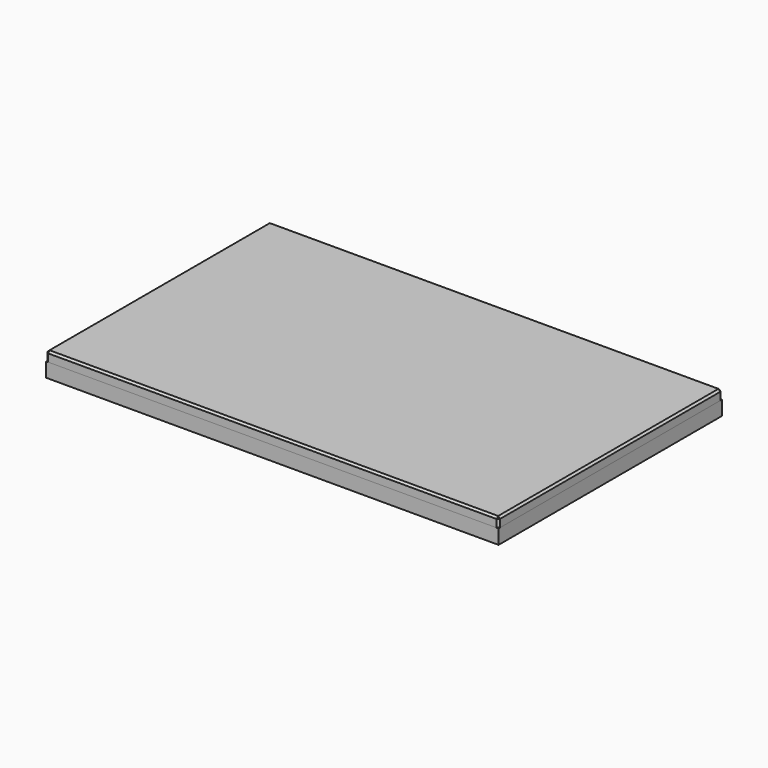
from build123d import *

# Parameters (mm, degrees)
F1_DEPTH = 38.1
F3_DEPTH = 38.1
F4_DEPTH = 25.4
F5_DEPTH = 38.1
F6_SIZE  = 5.08


with BuildPart() as f1:
    # F0 (on Top) → F1 (new body)
    with BuildSketch(Plane.XY):
        with BuildLine():
            Line((-242.81340909, -342.9), (646.18659091, -342.9))
            ThreePointArc((646.18659091, -342.9), (700.0681276364, -320.5815367264), (722.38659091, -266.7))
            Line((722.38659091, -266.7), (722.38659091, 266.7))
            ThreePointArc((722.38659091, 266.7), (700.0681276364, 320.5815367264), (646.18659091, 342.9))
            Line((646.18659091, 342.9), (-242.81340909, 342.9))
            ThreePointArc((-242.81340909, 342.9), (-296.6949458165, 320.5815367264), (-319.01340909, 266.7))
            Line((-319.01340909, 266.7), (-319.01340909, -266.7))
            ThreePointArc((-319.01340909, -266.7), (-296.6949458165, -320.5815367264), (-242.81340909, -342.9))
        make_face()
    extrude(amount=F1_DEPTH)


with BuildPart() as f3:
    # F2 (on face) → F3 (new body)
    with BuildSketch(Plane.XY.offset(38.1)):
        Polygon((722.38659091, 349.25), (741.43659091, 368.3), (-452.36340909, 368.3), (-433.31340909, 349.25), align=None)
    extrude(amount=-F3_DEPTH)


with BuildPart() as f3b:
    # F2 (on face) → F3, piece 2 (new body)
    with BuildSketch(Plane.XY.offset(38.1)):
        Polygon((-452.36340909, -368.3), (741.43659091, -368.3), (722.38659091, -349.25), (-433.31340909, -349.25), align=None)
    extrude(amount=-F3_DEPTH)


with BuildPart() as f4:
    # F2 (on face) → F4 (new body)
    with BuildSketch(Plane.XY.offset(38.1)):
        with BuildLine():
            ThreePointArc((646.18659091, -342.9), (700.0681276364, -320.5815367264), (722.38659091, -266.7))
            Line((722.38659091, -266.7), (722.38659091, 266.7))
            ThreePointArc((722.38659091, 266.7), (700.0681276364, 320.5815367264), (646.18659091, 342.9))
            Line((646.18659091, 342.9), (-242.81340909, 342.9))
            ThreePointArc((-242.81340909, 342.9), (-296.6949458165, 320.5815367264), (-319.01340909, 266.7))
            Line((-319.01340909, 266.7), (-319.01340909, -266.7))
            ThreePointArc((-319.01340909, -266.7), (-296.6949458165, -320.5815367264), (-242.81340909, -342.9))
            Line((-242.81340909, -342.9), (646.18659091, -342.9))
        make_face()
        Polygon((-452.36340909, -368.3), (741.43659091, -368.3), (722.38659091, -349.25), (-433.31340909, -349.25), align=None)
        Polygon((722.38659091, -349.25), (741.43659091, -368.3), (741.43659091, 368.3), (722.38659091, 349.25), (722.38659091, 266.7), (722.38659091, -266.7), align=None)
        Polygon((-452.36340909, 368.3), (-452.36340909, -368.3), (-433.31340909, -349.25), (-433.31340909, 349.25), align=None)
        with BuildLine():
            Line((-433.31340909, -349.25), (722.38659091, -349.25))
            Line((722.38659091, -349.25), (722.38659091, -266.7))
            ThreePointArc((722.38659091, -266.7), (700.0681276364, -320.5815367264), (646.18659091, -342.9))
            Line((646.18659091, -342.9), (-242.81340909, -342.9))
            ThreePointArc((-242.81340909, -342.9), (-296.6949458165, -320.5815367264), (-319.01340909, -266.7))
            Line((-319.01340909, -266.7), (-319.01340909, 266.7))
            ThreePointArc((-319.01340909, 266.7), (-296.6949458165, 320.5815367264), (-242.81340909, 342.9))
            Line((-242.81340909, 342.9), (646.18659091, 342.9))
            ThreePointArc((646.18659091, 342.9), (700.0681276364, 320.5815367264), (722.38659091, 266.7))
            Line((722.38659091, 266.7), (722.38659091, 349.25))
            Line((722.38659091, 349.25), (-433.31340909, 349.25))
            Line((-433.31340909, 349.25), (-433.31340909, -349.25))
        make_face()
        Polygon((722.38659091, 349.25), (741.43659091, 368.3), (-452.36340909, 368.3), (-433.31340909, 349.25), align=None)
    extrude(amount=F4_DEPTH)

    # F6
    f6_edges = [f4.edges().sort_by_distance(p)[0] for p in [
        (-452.363409, 0, 63.5),
        (144.536591, -368.3, 63.5),
        (741.436591, 0, 63.5),
        (144.536591, 368.3, 63.5),
        (741.436591, -368.3, 50.8),
        (741.436591, 368.3, 50.8),
        (-452.363409, -368.3, 50.8),
        (-452.363409, 368.3, 50.8),
    ]]
    chamfer(f6_edges, length=F6_SIZE)


with BuildPart() as f5:
    # F2 (on face) → F5 (new body)
    with BuildSketch(Plane.XY.offset(38.1)):
        Polygon((-452.36340909, 368.3), (-452.36340909, -368.3), (-433.31340909, -349.25), (-433.31340909, 349.25), align=None)
    extrude(amount=-F5_DEPTH)


with BuildPart() as f5b:
    # F2 (on face) → F5, piece 2 (new body)
    with BuildSketch(Plane.XY.offset(38.1)):
        Polygon((722.38659091, -349.25), (741.43659091, -368.3), (741.43659091, 368.3), (722.38659091, 349.25), (722.38659091, 266.7), (722.38659091, -266.7), align=None)
    extrude(amount=-F5_DEPTH)


solid = Compound([f1.part, f3.part, f3b.part, f4.part, f5.part, f5b.part])
